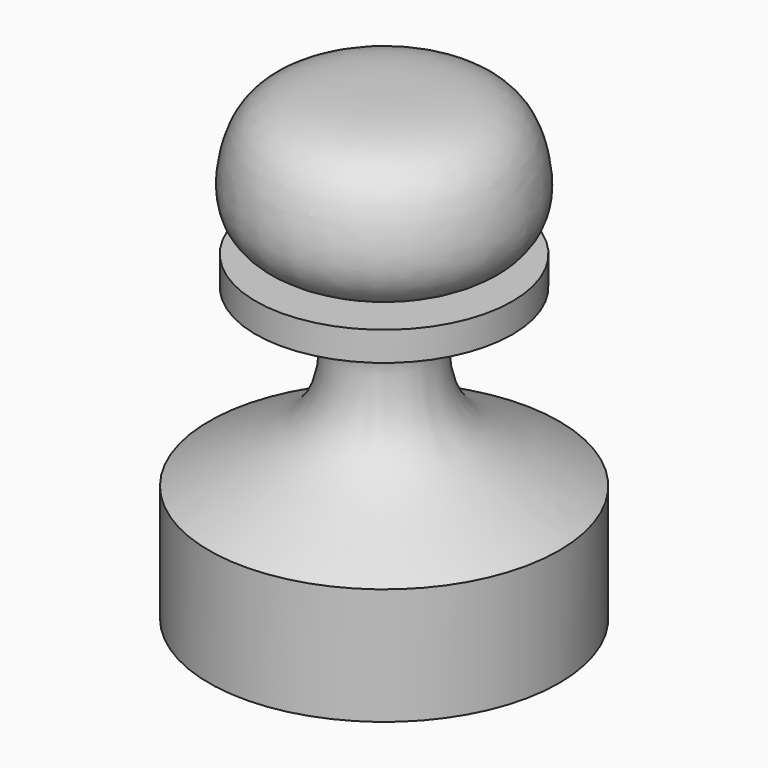
from build123d import *


with BuildPart() as f1:
    # F0 (on Front) → F1 (revolve)
    with BuildSketch(Plane.XZ):
        with BuildLine():
            Line((0, 50.8), (0, 34.925))
            Line((0, 34.925), (6.985, 34.925))
            add(Edge.make_bspline(
                [(6.985, 34.925), (14.7014663656, 35.8285003282), (14.7579266168, 44.3466005075), (11.2465458357, 50.1659365692), (5.7059846608, 50.9006321078), (0, 50.8)],
                knots=[0, 0, 0, 0, 0.372820087, 0.6340680412, 1, 1, 1, 1], degree=3))
        make_face()
        Polygon((0, 34.925), (0, 31.75), (9.525, 31.75), (13.97, 31.75), (13.97, 34.925), (6.985, 34.925), align=None)
        with BuildLine():
            Line((0, 31.75), (0, 0))
            Line((0, 0), (19.05, 0))
            Line((19.05, 0), (19.05, 12.7))
            add(Edge.make_bspline(
                [(19.05, 12.7), (14.7852268247, 15.0992752294), (8.6001992559, 17.6645746008), (5.0451952411, 22.9375174572), (5.3303460288, 31.3768557704), (9.525, 31.75)],
                knots=[0, 0, 0, 0, 0.3838360582, 0.6646815416, 1, 1, 1, 1], degree=3))
            Line((9.525, 31.75), (0, 31.75))
        make_face()
    revolve(axis=Axis((0, 0, 25.4), (0, 0, 1)))


solid = f1.part
